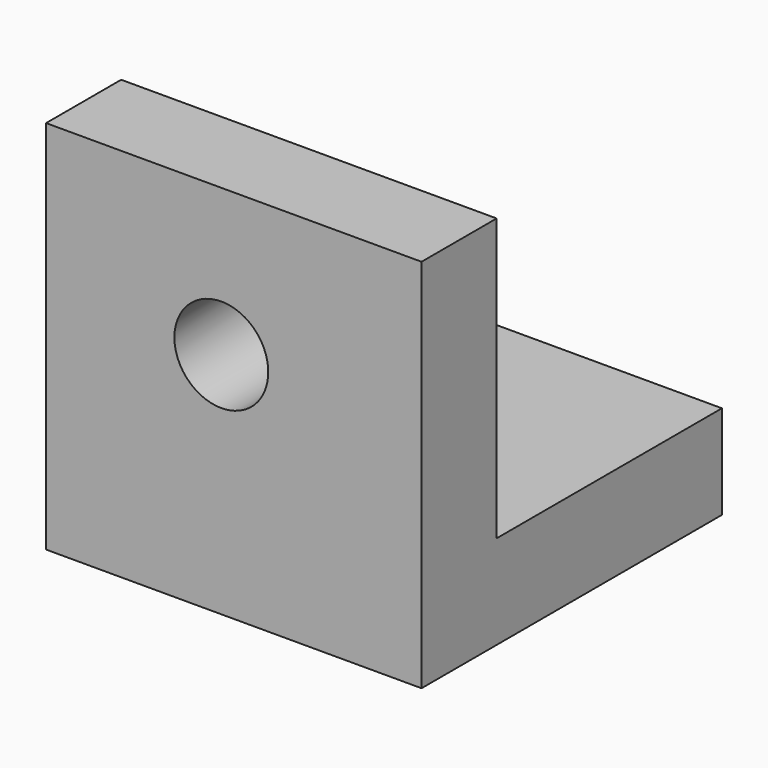
from build123d import *

# Parameters (mm, degrees)
F0_W     = 50.8
F0_H     = 50.8
F1_DEPTH = 12.7
F2_W     = 50.8
F2_H     = 50.8
F3_DEPTH = 12.7
F4_R     = 6.35
F5_DEPTH = 15.24


with BuildPart() as f1:
    # F0 (on Top) → F1 (new body)
    with BuildSketch(Plane.XY):
        with Locations((1.688523, 3.568847)):
            Rectangle(F0_W, F0_H)
    extrude(amount=F1_DEPTH)

    # F2 (on face) → F3 (join)
    with BuildSketch(Plane.XZ.offset(21.831153)):
        with Locations((1.688523, 25.4)):
            Rectangle(F2_W, F2_H)
    extrude(amount=-F3_DEPTH)

    # F4 (on face) → F5 (cut)
    with BuildSketch(Plane(origin=(0, -9.131153, 0), x_dir=(-1, 0, 0), z_dir=(0, 1, 0))):
        with Locations((0, 30.912954)):
            Circle(F4_R)
    extrude(amount=-F5_DEPTH, mode=Mode.SUBTRACT)


solid = f1.part
